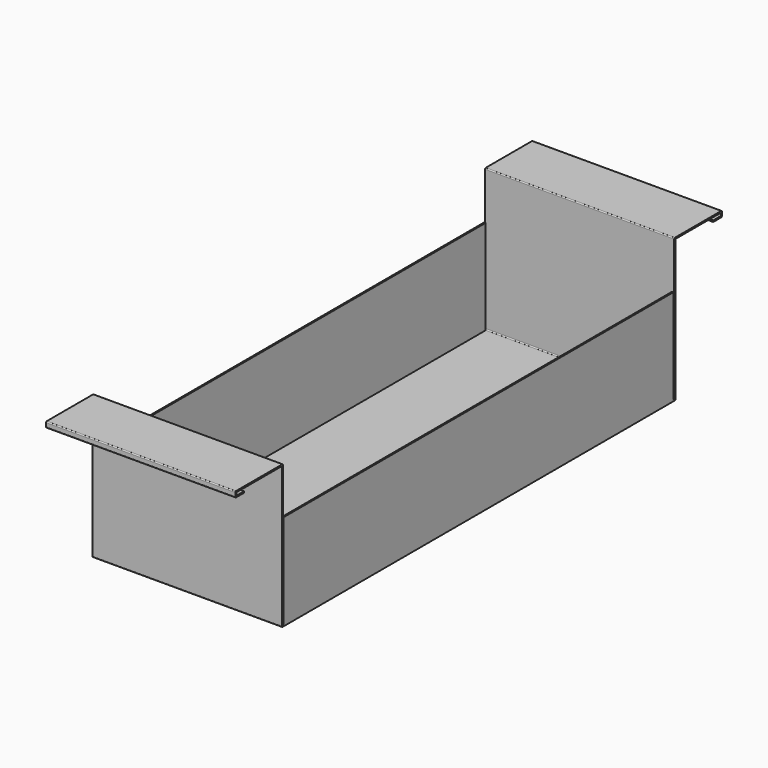
from build123d import *

# Parameters (mm, degrees)
F1_DEPTH = 200
F2_W     = 1.5
F2_H     = 515
F3_DEPTH = 100


with BuildPart() as f1:
    # F0 (on Right) → F1 (new body)
    with BuildSketch(Plane.YZ):
        with BuildLine():
            Line((-304.685603, 141.559852), (-304.685603, 143.059852))
            Line((-304.685603, 143.059852), (-313.685603, 143.059852))
            ThreePointArc((-313.685603, 143.059852), (-314.39271, 143.352745), (-314.685603, 144.059852))
            Line((-314.685603, 144.059852), (-314.685603, 145.059852))
            ThreePointArc((-314.685603, 145.059852), (-314.39271, 145.766959), (-313.685603, 146.059852))
            Line((-313.685603, 146.059852), (-255.685603, 146.059852))
            ThreePointArc((-255.685603, 146.059852), (-254.978496, 145.766959), (-254.685603, 145.059852))
            Line((-254.685603, 145.059852), (-254.685603, -2.940148))
            ThreePointArc((-254.685603, -2.940148), (-254.39271, -3.647255), (-253.685603, -3.940148))
            Line((-253.685603, -3.940148), (264.314397, -3.940148))
            ThreePointArc((264.314397, -3.940148), (265.021504, -3.647255), (265.314397, -2.940148))
            Line((265.314397, -2.940148), (265.314397, 145.059852))
            ThreePointArc((265.314397, 145.059852), (265.60729, 145.766959), (266.314397, 146.059852))
            Line((266.314397, 146.059852), (324.314397, 146.059852))
            ThreePointArc((324.314397, 146.059852), (325.021504, 145.766959), (325.314397, 145.059852))
            Line((325.314397, 145.059852), (325.314397, 144.059852))
            ThreePointArc((325.314397, 144.059852), (325.021504, 143.352745), (324.314397, 143.059852))
            Line((324.314397, 143.059852), (315.314397, 143.059852))
            Line((315.314397, 143.059852), (315.314397, 141.559852))
            Line((315.314397, 141.559852), (325.814397, 141.559852))
            ThreePointArc((325.814397, 141.559852), (326.521504, 141.852745), (326.814397, 142.559852))
            Line((326.814397, 142.559852), (326.814397, 146.559852))
            ThreePointArc((326.814397, 146.559852), (326.521504, 147.266959), (325.814397, 147.559852))
            Line((325.814397, 147.559852), (264.814397, 147.559852))
            ThreePointArc((264.814397, 147.559852), (264.10729, 147.266959), (263.814397, 146.559852))
            Line((263.814397, 146.559852), (263.814397, -1.440148))
            ThreePointArc((263.814397, -1.440148), (263.521504, -2.147255), (262.814397, -2.440148))
            Line((262.814397, -2.440148), (-252.185603, -2.440148))
            ThreePointArc((-252.185603, -2.440148), (-252.89271, -2.147255), (-253.185603, -1.440148))
            Line((-253.185603, -1.440148), (-253.185603, 146.559852))
            ThreePointArc((-253.185603, 146.559852), (-253.478496, 147.266959), (-254.185603, 147.559852))
            Line((-254.185603, 147.559852), (-315.185603, 147.559852))
            ThreePointArc((-315.185603, 147.559852), (-315.89271, 147.266959), (-316.185603, 146.559852))
            Line((-316.185603, 146.559852), (-316.185603, 142.559852))
            ThreePointArc((-316.185603, 142.559852), (-315.89271, 141.852745), (-315.185603, 141.559852))
            Line((-315.185603, 141.559852), (-304.685603, 141.559852))
        make_face()
    extrude(amount=-F1_DEPTH)

    # F2 (on face) → F3 (join)
    with BuildSketch(Plane.XY.offset(-2.440148)):
        with Locations((-0.75, 5.314397)):
            Rectangle(F2_W, F2_H)
        with Locations((-199.25, 5.314397)):
            Rectangle(F2_W, F2_H)
    extrude(amount=F3_DEPTH)


solid = f1.part
